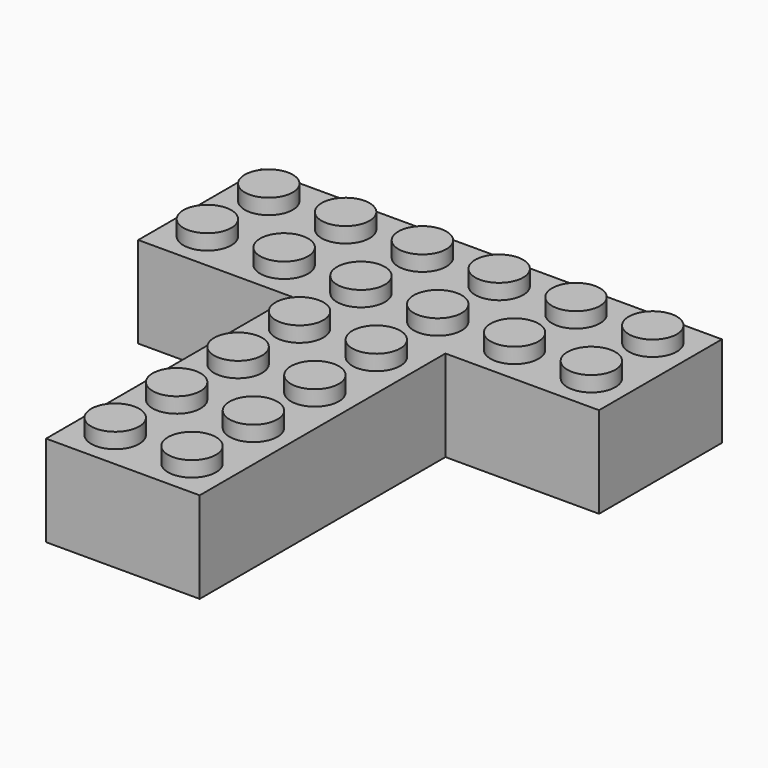
from build123d import *

# Parameters (mm, degrees)
F0_W     = 16
F0_H     = 16
F1_DEPTH = 9.5
F2_R     = 2.5
F3_DEPTH = 1.6


with BuildPart() as f1:
    # F0 (on Top) → F1 (new body)
    with BuildSketch(Plane.XY):
        Polygon((-8, -24), (8, -24), (8, 8), (8, 24), (-8, 24), (-8, 8), align=None)
        with Locations((16, 16)):
            Rectangle(F0_W, F0_H)
        with Locations((-16, 16)):
            Rectangle(F0_W, F0_H)
    extrude(amount=F1_DEPTH)

    # F2 (on face) → F3 (join)
    with BuildSketch(Plane.XY.offset(9.5)):
        with Locations((-20, 20)):
            Circle(F2_R)
        with Locations((-20, 12)):
            Circle(F2_R)
        with Locations((-12, 20)):
            Circle(F2_R)
        with Locations((-12, 12)):
            Circle(F2_R)
        with Locations((-4, 20)):
            Circle(F2_R)
        with Locations((-4, 12)):
            Circle(F2_R)
        with Locations((4, 20)):
            Circle(F2_R)
        with Locations((4, 12)):
            Circle(F2_R)
        with Locations((12, 12)):
            Circle(F2_R)
        with Locations((12, 20)):
            Circle(F2_R)
        with Locations((20, 20)):
            Circle(F2_R)
        with Locations((20, 12)):
            Circle(F2_R)
        with Locations((-4, 4)):
            Circle(F2_R)
        with Locations((4, 4)):
            Circle(F2_R)
        with Locations((-4, -4)):
            Circle(F2_R)
        with Locations((4, -4)):
            Circle(F2_R)
        with Locations((4, -12)):
            Circle(F2_R)
        with Locations((-4, -12)):
            Circle(F2_R)
        with Locations((-4, -20)):
            Circle(F2_R)
        with Locations((4, -20)):
            Circle(F2_R)
    extrude(amount=F3_DEPTH)


solid = f1.part
